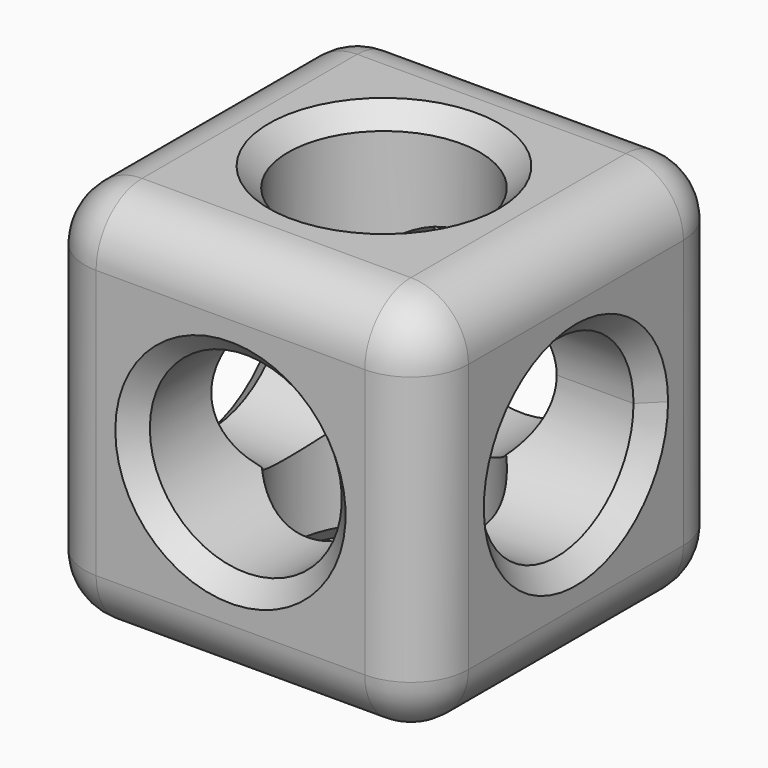
from build123d import *

# Parameters (mm, degrees)
F1_DEPTH = 50.8
F2_DEPTH = 50.8
F4_DEPTH = 80.772
F6_DEPTH = 101.346
F7_R     = 7.62
F8_SIZE  = 2.54


with BuildPart() as f1:
    # F0 (on Front) → F1 (new body)
    with BuildSketch(Plane.XZ):
        Polygon((0, -50.8), (0, 0), (-50.8, 0), (-50.8, -25.4), (-50.8, -50.8), align=None)
        with BuildLine():
            ThreePointArc((-12.7, -25.4), (-25.4, -38.1), (-38.1, -25.4))
            ThreePointArc((-38.1, -25.4), (-25.4, -12.7), (-12.7, -25.4))
        make_face(mode=Mode.SUBTRACT)
    extrude(amount=F1_DEPTH)

    # F0 (on Front) → F2 (join)
    with BuildSketch(Plane.XZ):
        Polygon((0, -50.8), (0, 0), (-50.8, 0), (-50.8, -25.4), (-50.8, -50.8), align=None)
        with BuildLine():
            ThreePointArc((-12.7, -25.4), (-25.4, -38.1), (-38.1, -25.4))
            ThreePointArc((-38.1, -25.4), (-25.4, -12.7), (-12.7, -25.4))
        make_face(mode=Mode.SUBTRACT)
    extrude(amount=F2_DEPTH)

    # F3 (on face) → F4 (cut)
    with BuildSketch(Plane.XY):
        with BuildLine():
            ThreePointArc((-38.1, -25.4), (-25.4, -38.1), (-12.7, -25.4))
            ThreePointArc((-12.7, -25.4), (-25.4, -12.7), (-38.1, -25.4))
        make_face()
    extrude(amount=-F4_DEPTH, mode=Mode.SUBTRACT)

    # F5 (on face) → F6 (cut)
    with BuildSketch(Plane.YZ):
        with BuildLine():
            ThreePointArc((-25.4, -12.7), (-34.3802561211, -34.3802561211), (-12.7, -25.4))
            ThreePointArc((-12.7, -25.4), (-16.4197438789, -16.4197438789), (-25.4, -12.7))
        make_face()
    extrude(amount=-F6_DEPTH, mode=Mode.SUBTRACT)

    # F7
    f7_edges = [f1.edges().sort_by_distance(p)[0] for p in [
        (-25.4, -50.8, 0),
        (-50.8, -25.4, 0),
        (-25.4, 0, 0),
        (0, -25.4, 0),
        (0, -50.8, -25.4),
        (-25.4, -50.8, -50.8),
        (0, -25.4, -50.8),
        (0, 0, -25.4),
        (-50.8, -50.8, -25.4),
        (-50.8, -25.4, -50.8),
        (-25.4, 0, -50.8),
        (-50.8, 0, -25.4),
    ]]
    fillet(f7_edges, radius=F7_R)

    # F8
    f8_edges = [f1.edges().sort_by_distance(p)[0] for p in [
        (-38.1, -25.4, 0),
        (-38.1, -50.8, -25.4),
        (0, -38.1, -25.4),
        (-38.1, 0, -25.4),
        (-50.8, -38.1, -25.4),
        (-38.1, -25.4, -50.8),
    ]]
    chamfer(f8_edges, length=F8_SIZE)


solid = f1.part
